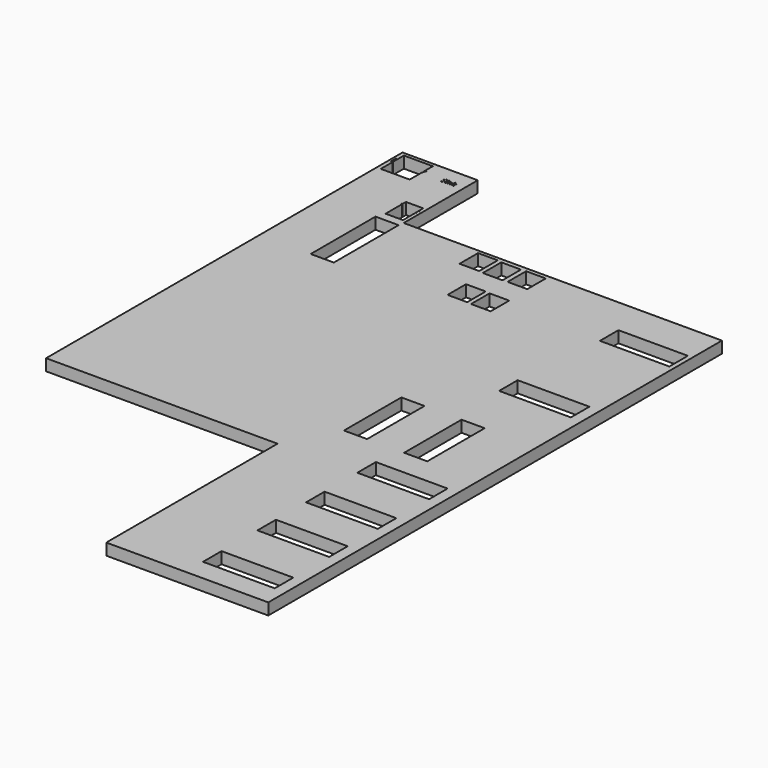
from build123d import *

# Parameters (mm, degrees)
F0_W     = 1.2564912977
F0_H     = 8.2918741706
F0_W_2   = 157.48
F0_H_2   = 50.8
F0_W_3   = 50.8
F0_H_3   = 177.8
F0_W_4   = 43.18
F0_W_5   = 152.4
F1_DEPTH = 25.4


with BuildPart() as f1:
    # F0 (on Top) → F1 (new body)
    with BuildSketch(Plane.XY):
        Polygon((99.06, 0), (0, 0), (0, -204.0152847767), (9.3382823174, -203.9691711521), (165.1, -203.2), (165.1, -63.5), (165.1, -55.88), (99.06, -55.88), align=None)
        with BuildLine():
            Line((8.9546833187, -36.6966455798), (8.9546833187, -7.4383206666))
            Line((8.9546833187, -7.4383206666), (72.4546833187, -7.4383206666))
            Line((72.4546833187, -7.4383206666), (72.4546833187, -33.3755139087))
            add(Edge.make_bspline(
                [(72.4546833187, -33.3755139087), (73.105417481, -31.5478681114), (74.4016663454, -27.9656059508)],
                knots=[0.3921011179, 0.3921011179, 0.3921011179, 1, 1, 1], degree=2))
            Line((74.4016663454, -27.9656059508), (76.0505991014, -27.9656059508))
            Line((76.0505991014, -27.9656059508), (72.4546833187, -37.4928284728))
            Line((72.4546833187, -37.4928284728), (72.4546833187, -70.9383206666))
            Line((72.4546833187, -70.9383206666), (8.9546833187, -70.9383206666))
            Line((8.9546833187, -70.9383206666), (8.9546833187, -38.1231503561))
            Line((8.9546833187, -38.1231503561), (5.2799473803, -38.1231503561))
            Line((5.2799473803, -38.1231503561), (5.2799473803, -24.5728378341))
            Line((5.2799473803, -24.5728378341), (6.8547374764, -24.5728378341))
            Line((6.8547374764, -24.5728378341), (6.8547374764, -36.6966455798))
            Line((6.8547374764, -36.6966455798), (8.9546833187, -36.6966455798))
        make_face(mode=Mode.SUBTRACT)
        with BuildLine():
            Line((157.3745012283, -160.5447754352), (157.3745012283, -195.6046670675))
            Line((157.3745012283, -195.6046670675), (119.2745012283, -195.6046670675))
            Line((119.2745012283, -195.6046670675), (119.2745012283, -149.8554415367))
            Line((119.2745012283, -149.8554415367), (116.9203864928, -149.8554415367))
            Line((116.9203864928, -149.8554415367), (116.9203864928, -148.6425888919))
            Line((116.9203864928, -148.6425888919), (119.2745012283, -148.6425888919))
            Line((119.2745012283, -148.6425888919), (119.2745012283, -139.7246670675))
            Line((119.2745012283, -139.7246670675), (157.3745012283, -139.7246670675))
            Line((157.3745012283, -139.7246670675), (157.3745012283, -151.5822147938))
            Line((157.3745012283, -151.5822147938), (158.7535243274, -151.5822147938))
            Line((158.7535243274, -151.5822147938), (158.7535243274, -152.6177648274))
            Line((158.7535243274, -152.6177648274), (157.3745012283, -152.6177648274))
            Line((157.3745012283, -152.6177648274), (157.3745012283, -159.4275099863))
            add(Edge.make_bspline(
                [(157.3745012283, -159.4275099863), (157.4885816165, -159.4426305577), (157.6126205683, -159.4426305577)],
                knots=[0.8114389095, 0.8114389095, 0.8114389095, 1, 1, 1], degree=2))
            add(Edge.make_bspline(
                [(157.6126205683, -159.4426305577), (157.9672257907, -159.4426305577), (158.2961349826, -159.3912384964)],
                knots=[0, 0, 0, 1, 1, 1], degree=2))
            add(Edge.make_bspline(
                [(158.2961349826, -159.3912384964), (158.6250441744, -159.3398464352), (158.817764404, -159.2833151679)],
                knots=[0, 0, 0, 1, 1, 1], degree=2))
            Line((158.817764404, -159.2833151679), (158.817764404, -160.3034475831))
            add(Edge.make_bspline(
                [(158.817764404, -160.3034475831), (158.6019177468, -160.4062317056), (158.1805028448, -160.4756109882)],
                knots=[0, 0, 0, 1, 1, 1], degree=2))
            add(Edge.make_bspline(
                [(158.1805028448, -160.4756109882), (157.7590879428, -160.5449902709), (157.4199003387, -160.5449902709)],
                knots=[0, 0, 0, 1, 1, 1], degree=2))
            add(Edge.make_bspline(
                [(157.4199003387, -160.5449902709), (157.3970989059, -160.5449902709), (157.3745012283, -160.5447754352)],
                knots=[0, 0, 0, 0.0089360759, 0.0089360759, 0.0089360759], degree=2))
        make_face(mode=Mode.SUBTRACT)
        Polygon((101.6, 0), (99.06, 0), (99.06, -55.88), (165.1, -55.88), (165.1, 0), align=None)
        with BuildLine():
            add(Edge.make_bspline(
                [(124.2590474236, -38.0722091019), (124.9127134167, -38.7839787387), (124.9127134167, -39.9169997933)],
                knots=[0, 0, 0, 1, 1, 1], degree=2))
            add(Edge.make_bspline(
                [(124.9127134167, -39.9169997933), (124.9127134167, -41.3768538444), (123.8535324095, -42.1951468282)],
                knots=[0, 0, 0, 1, 1, 1], degree=2))
            add(Edge.make_bspline(
                [(123.8535324095, -42.1951468282), (122.7943514023, -43.0134398121), (120.9786125328, -43.0134398121)],
                knots=[0, 0, 0, 1, 1, 1], degree=2))
            add(Edge.make_bspline(
                [(120.9786125328, -43.0134398121), (119.0127725834, -43.0134398121), (117.9523810836, -42.5050329286)],
                knots=[0, 0, 0, 1, 1, 1], degree=2))
            Line((117.9523810836, -42.5050329286), (117.9523810836, -41.265488527))
            add(Edge.make_bspline(
                [(117.9523810836, -41.265488527), (118.6350988986, -41.5511647758), (119.4364449863, -41.7182127518)],
                knots=[0, 0, 0, 1, 1, 1], degree=2))
            add(Edge.make_bspline(
                [(119.4364449863, -41.7182127518), (120.237791074, -41.8852607278), (121.0246112508, -41.8852607278)],
                knots=[0, 0, 0, 1, 1, 1], degree=2))
            add(Edge.make_bspline(
                [(121.0246112508, -41.8852607278), (122.3101543704, -41.8852607278), (122.9613993783, -41.3974322182)],
                knots=[0, 0, 0, 1, 1, 1], degree=2))
            add(Edge.make_bspline(
                [(122.9613993783, -41.3974322182), (123.6126443861, -40.9096037086), (123.6126443861, -40.0380490513)],
                knots=[0, 0, 0, 1, 1, 1], degree=2))
            add(Edge.make_bspline(
                [(123.6126443861, -40.0380490513), (123.6126443861, -39.4642755685), (123.3814403034, -39.0974963169)],
                knots=[0, 0, 0, 1, 1, 1], degree=2))
            add(Edge.make_bspline(
                [(123.3814403034, -39.0974963169), (123.1502362207, -38.7307170652), (122.6091460376, -38.4196204723)],
                knots=[0, 0, 0, 1, 1, 1], degree=2))
            add(Edge.make_bspline(
                [(122.6091460376, -38.4196204723), (122.0680558545, -38.1085238793), (120.9640866218, -37.7163242835)],
                knots=[0, 0, 0, 1, 1, 1], degree=2))
            add(Edge.make_bspline(
                [(120.9640866218, -37.7163242835), (119.4219190753, -37.1643396672), (118.7597796343, -36.4077818049)],
                knots=[0, 0, 0, 1, 1, 1], degree=2))
            add(Edge.make_bspline(
                [(118.7597796343, -36.4077818049), (118.0976401932, -35.6512239426), (118.0976401932, -34.4334684075)],
                knots=[0, 0, 0, 1, 1, 1], degree=2))
            add(Edge.make_bspline(
                [(118.0976401932, -34.4334684075), (118.0976401932, -33.1551882434), (119.0575608089, -32.3986303811)],
                knots=[0, 0, 0, 1, 1, 1], degree=2))
            add(Edge.make_bspline(
                [(119.0575608089, -32.3986303811), (120.0174814245, -31.6420725188), (121.6008057187, -31.6420725188)],
                knots=[0, 0, 0, 1, 1, 1], degree=2))
            add(Edge.make_bspline(
                [(121.6008057187, -31.6420725188), (123.2494966122, -31.6420725188), (124.6343001233, -32.2473188086)],
                knots=[0, 0, 0, 1, 1, 1], degree=2))
            Line((124.6343001233, -32.2473188086), (124.2324165869, -33.3658139522))
            add(Edge.make_bspline(
                [(124.2324165869, -33.3658139522), (122.8621389867, -32.7920404695), (121.5693329117, -32.7920404695)],
                knots=[0, 0, 0, 1, 1, 1], degree=2))
            add(Edge.make_bspline(
                [(121.5693329117, -32.7920404695), (120.5476771744, -32.7920404695), (119.9726931991, -33.2302387833)],
                knots=[0, 0, 0, 1, 1, 1], degree=2))
            add(Edge.make_bspline(
                [(119.9726931991, -33.2302387833), (119.3977092238, -33.6684370971), (119.3977092238, -34.4479943184)],
                knots=[0, 0, 0, 1, 1, 1], degree=2))
            add(Edge.make_bspline(
                [(119.3977092238, -34.4479943184), (119.3977092238, -35.0217678012), (119.6095454252, -35.3897575454)],
                knots=[0, 0, 0, 1, 1, 1], degree=2))
            add(Edge.make_bspline(
                [(119.6095454252, -35.3897575454), (119.8213816266, -35.7577472896), (120.3249465398, -36.0640019123)],
                knots=[0, 0, 0, 1, 1, 1], degree=2))
            add(Edge.make_bspline(
                [(120.3249465398, -36.0640019123), (120.8285114529, -36.3702565349), (121.8646931011, -36.7406672643)],
                knots=[0, 0, 0, 1, 1, 1], degree=2))
            add(Edge.make_bspline(
                [(121.8646931011, -36.7406672643), (123.6053814306, -37.3604394651), (124.2590474236, -38.0722091019)],
                knots=[0, 0, 0, 1, 1, 1], degree=2))
        make_face(mode=Mode.SUBTRACT)
        with Locations((127.615743347, -38.7149806617)):
            Rectangle(F0_W, F0_H, mode=Mode.SUBTRACT)
        with BuildLine():
            Line((137.8383531822, -42.860917747), (136.5818618845, -42.860917747))
            Line((136.5818618845, -42.860917747), (136.5818618845, -37.496014634))
            add(Edge.make_bspline(
                [(136.5818618845, -37.496014634), (136.5818618845, -36.4840428374), (136.1206642117, -35.984109402)],
                knots=[0, 0, 0, 1, 1, 1], degree=2))
            add(Edge.make_bspline(
                [(136.1206642117, -35.984109402), (135.6594665388, -35.4841759666), (134.674125579, -35.4841759666)],
                knots=[0, 0, 0, 1, 1, 1], degree=2))
            add(Edge.make_bspline(
                [(134.674125579, -35.4841759666), (133.3740565484, -35.4841759666), (132.7688102586, -36.1874721554)],
                knots=[0, 0, 0, 1, 1, 1], degree=2))
            add(Edge.make_bspline(
                [(132.7688102586, -36.1874721554), (132.1635639688, -36.8907683442), (132.1635639688, -38.5104074157)],
                knots=[0, 0, 0, 1, 1, 1], degree=2))
            Line((132.1635639688, -38.5104074157), (132.1635639688, -42.860917747))
            Line((132.1635639688, -42.860917747), (130.9070726711, -42.860917747))
            Line((130.9070726711, -42.860917747), (130.9070726711, -34.5690435764))
            Line((130.9070726711, -34.5690435764), (131.9287284083, -34.5690435764))
            Line((131.9287284083, -34.5690435764), (132.1320911617, -35.7044856161))
            Line((132.1320911617, -35.7044856161), (132.1926157907, -35.7044856161))
            add(Edge.make_bspline(
                [(132.1926157907, -35.7044856161), (132.5799734162, -35.0919763708), (133.2760066495, -34.7542489411)],
                knots=[0, 0, 0, 1, 1, 1], degree=2))
            add(Edge.make_bspline(
                [(133.2760066495, -34.7542489411), (133.9720398828, -34.4165215114), (134.826647644, -34.4165215114)],
                knots=[0, 0, 0, 1, 1, 1], degree=2))
            add(Edge.make_bspline(
                [(134.826647644, -34.4165215114), (136.3252374576, -34.4165215114), (137.0817953199, -35.1391855814)],
                knots=[0, 0, 0, 1, 1, 1], degree=2))
            add(Edge.make_bspline(
                [(137.0817953199, -35.1391855814), (137.8383531822, -35.8618496515), (137.8383531822, -37.4524369011)],
                knots=[0, 0, 0, 1, 1, 1], degree=2))
            Line((137.8383531822, -37.4524369011), (137.8383531822, -42.860917747))
        make_face(mode=Mode.SUBTRACT)
        with BuildLine():
            add(Edge.make_bspline(
                [(127.0928105526, -32.9542464751), (126.8809743512, -32.7460417514), (126.8809743512, -32.3223693485)],
                knots=[0, 0, 0, 1, 1, 1], degree=2))
            add(Edge.make_bspline(
                [(126.8809743512, -32.3223693485), (126.8809743512, -31.8914339902), (127.0928105526, -31.690492222)],
                knots=[0, 0, 0, 1, 1, 1], degree=2))
            add(Edge.make_bspline(
                [(127.0928105526, -31.690492222), (127.3046467541, -31.4895504537), (127.6242167951, -31.4895504537)],
                knots=[0, 0, 0, 1, 1, 1], degree=2))
            add(Edge.make_bspline(
                [(127.6242167951, -31.4895504537), (127.92683994, -31.4895504537), (128.1459390969, -31.6941236997)],
                knots=[0, 0, 0, 1, 1, 1], degree=2))
            add(Edge.make_bspline(
                [(128.1459390969, -31.6941236997), (128.3650382538, -31.8986969457), (128.3650382538, -32.3223693485)],
                knots=[0, 0, 0, 1, 1, 1], degree=2))
            add(Edge.make_bspline(
                [(128.3650382538, -32.3223693485), (128.3650382538, -32.7460417514), (128.1459390969, -32.9542464751)],
                knots=[0, 0, 0, 1, 1, 1], degree=2))
            add(Edge.make_bspline(
                [(128.1459390969, -32.9542464751), (127.92683994, -33.1624511988), (127.6242167951, -33.1624511988)],
                knots=[0, 0, 0, 1, 1, 1], degree=2))
            add(Edge.make_bspline(
                [(127.6242167951, -33.1624511988), (127.3046467541, -33.1624511988), (127.0928105526, -32.9542464751)],
                knots=[0, 0, 0, 1, 1, 1], degree=2))
        make_face(mode=Mode.SUBTRACT)
        with BuildLine():
            Line((141.5981431346, -38.6169307628), (141.6586677636, -38.6169307628))
            add(Edge.make_bspline(
                [(141.6586677636, -38.6169307628), (141.9830797749, -38.1545225973), (142.6488506938, -37.4064381831)],
                knots=[0, 0, 0, 1, 1, 1], degree=2))
            Line((142.6488506938, -37.4064381831), (145.32646028, -34.5690435764))
            Line((145.32646028, -34.5690435764), (146.8177871381, -34.5690435764))
            Line((146.8177871381, -34.5690435764), (143.457459737, -38.1012609238))
            Line((143.457459737, -38.1012609238), (147.0526226985, -42.860917747))
            Line((147.0526226985, -42.860917747), (145.5322440185, -42.860917747))
            Line((145.5322440185, -42.860917747), (142.6028519757, -38.9413427741))
            Line((142.6028519757, -38.9413427741), (141.6586677636, -39.7596357579))
            Line((141.6586677636, -39.7596357579), (141.6586677636, -42.860917747))
            Line((141.6586677636, -42.860917747), (140.4167023769, -42.860917747))
            Line((140.4167023769, -42.860917747), (140.4167023769, -31.0876669173))
            Line((140.4167023769, -31.0876669173), (141.6586677636, -31.0876669173))
            Line((141.6586677636, -31.0876669173), (141.6586677636, -37.3313876432))
            add(Edge.make_bspline(
                [(141.6586677636, -37.3313876432), (141.6586677636, -37.7453761054), (141.5981431346, -38.6169307628)],
                knots=[0, 0, 0, 1, 1, 1], degree=2))
        make_face(mode=Mode.SUBTRACT)
        Polygon((9.3382823174, -203.9691711521), (0, -204.0152847767), (0, -776.3472497463), (0, -819.5272497463), (0, -824.2210149765), (0, -867.4010149765), (0, -873.9360570908), (0, -977.9), (508, -977.9), (508, -1447.8), (863.6, -1447.8), (863.6, -711.2), (749.3, -711.2), (749.3, -868.68), (698.5, -868.68), (698.5, -711.2), (617.1991570473, -711.2), (617.1991570473, -868.68), (566.3991570473, -868.68), (566.3991570473, -711.2), (533.4, -711.2), (533.4, -457.2), (533.4, -444.5), (533.4, -368.3), (533.4, -203.2), (330.2, -203.2), (177.8, -203.2), (165.1, -203.2), align=None)
        with Locations((760.8734376526, -1374.6071628571)):
            Rectangle(F0_W_2, F0_H_2, mode=Mode.SUBTRACT)
        with Locations((760.8734376526, -1225.3710798264)):
            Rectangle(F0_W_2, F0_H_2, mode=Mode.SUBTRACT)
        with Locations((760.8734376526, -1091.9384531021)):
            Rectangle(F0_W_2, F0_H_2, mode=Mode.SUBTRACT)
        Polygon((682.1334376526, -925.8284513974), (839.6134376526, -925.8284513974), (839.6134376526, -927.4578094482), (839.6134376526, -976.6284513974), (682.1334376526, -976.6284513974), align=None, mode=Mode.SUBTRACT)
        with Locations((137.9304549932, -303.7177623749)):
            Rectangle(F0_W_3, F0_H_3, mode=Mode.SUBTRACT)
        with Locations((412.0646174812, -339.2416111469)):
            Rectangle(F0_W_4, F0_H_2, mode=Mode.SUBTRACT)
        with Locations((355.9407945538, -236.1670710802)):
            Rectangle(F0_W_4, F0_H_2, mode=Mode.SUBTRACT)
        with Locations((408.5552748108, -238.0619517803)):
            Rectangle(F0_W_4, F0_H_2, mode=Mode.SUBTRACT)
        with Locations((464.7050257587, -340.5718378067)):
            Rectangle(F0_W_4, F0_H_2, mode=Mode.SUBTRACT)
        with Locations((462.2876103783, -237.2216603994)):
            Rectangle(F0_W_4, F0_H_2, mode=Mode.SUBTRACT)
        Polygon((863.6, -203.2), (533.4, -203.2), (533.4, -368.3), (533.4, -444.5), (533.4, -457.2), (863.6, -457.2), align=None)
        with Locations((777.1807825089, -309.2718593121)):
            Rectangle(F0_W_5, F0_H_2, mode=Mode.SUBTRACT)
        Polygon((863.6, -711.2), (863.6, -457.2), (533.4, -457.2), (533.4, -711.2), (566.3991570473, -711.2), (617.1991570473, -711.2), (698.5, -711.2), (749.3, -711.2), align=None)
        with Locations((760.8734376526, -562.1985963821)):
            Rectangle(F0_W_2, F0_H_2, mode=Mode.SUBTRACT)
    extrude(amount=F1_DEPTH)


solid = f1.part
